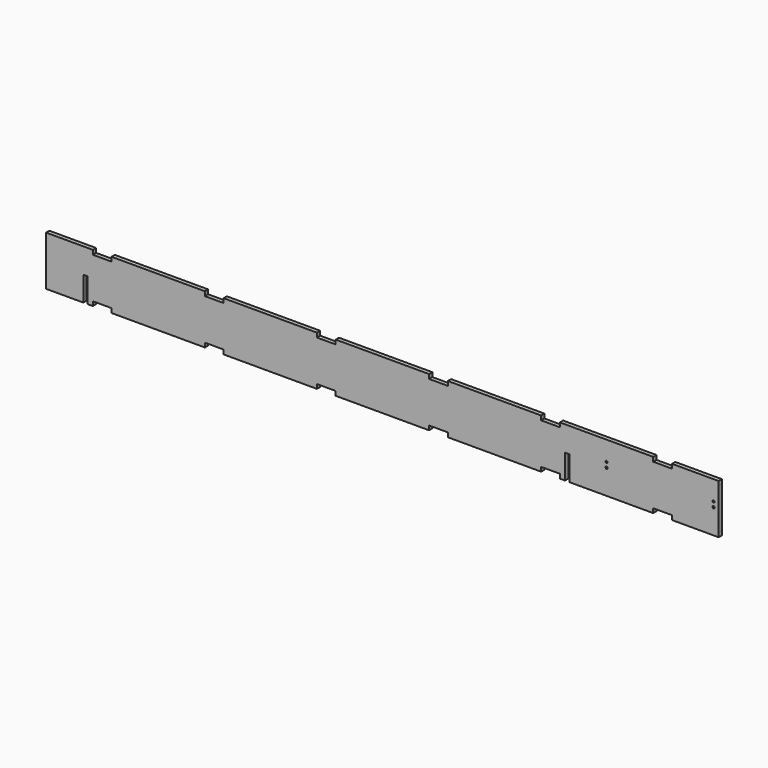
from build123d import *

# Parameters (mm, degrees)
F0_W     = 834.740075
F0_H     = 50.8
F1_DEPTH = 5.08
F3_W     = 57.9247
F3_H     = 5.334
F3_W_2   = 115.8494
F4_DEPTH = 5.08
F5_W     = 5.334
F5_H     = 30.48
F6_DEPTH = 25.4
F7_R     = 1.27
F8_DEPTH = 5.081


with BuildPart() as f1:
    # F0 (on Front) → F1 (new body)
    with BuildSketch(Plane.XZ):
        with Locations((417.370037, 25.4)):
            Rectangle(F0_W, F0_H)
    extrude(amount=F1_DEPTH)

    # F3 (on face) → F4 (join)
    with BuildSketch(Plane.XZ.offset(5.08)):
        with Locations((28.96235, 53.467)):
            Rectangle(F3_W, F3_H)
        with Locations((139.123346, 53.467)):
            Rectangle(F3_W_2, F3_H)
        with Locations((28.96235, -2.667)):
            Rectangle(F3_W, F3_H)
        with Locations((139.123346, -2.667)):
            Rectangle(F3_W_2, F3_H)
        with Locations((278.246692, 53.467)):
            Rectangle(F3_W_2, F3_H)
        with Locations((278.246692, -2.667)):
            Rectangle(F3_W_2, F3_H)
        with Locations((417.370038, 53.467)):
            Rectangle(F3_W_2, F3_H)
        with Locations((417.370038, -2.667)):
            Rectangle(F3_W_2, F3_H)
        with Locations((556.493384, 53.467)):
            Rectangle(F3_W_2, F3_H)
        with Locations((556.493384, -2.667)):
            Rectangle(F3_W_2, F3_H)
        with Locations((695.61673, 53.467)):
            Rectangle(F3_W_2, F3_H)
        with Locations((695.61673, -2.667)):
            Rectangle(F3_W_2, F3_H)
        with Locations((805.777725, 53.467)):
            Rectangle(F3_W, F3_H)
        with Locations((805.777725, -2.667)):
            Rectangle(F3_W, F3_H)
    extrude(amount=-F4_DEPTH)

    # F5 (on face) → F6 (cut)
    with BuildSketch(Plane(origin=(0, 0, 0), x_dir=(-1, 0, 0), z_dir=(0, 1, 0))):
        with Locations((-646.70903, 9.906)):
            Rectangle(F5_W, F5_H)
        with Locations((-48.9077, 9.906)):
            Rectangle(F5_W, F5_H)
    extrude(amount=-F6_DEPTH, mode=Mode.SUBTRACT)

    # F7 (on face) → F8 (cut, through all)
    with BuildSketch(Plane(origin=(0, 0, 0), x_dir=(-1, 0, 0), z_dir=(0, 1, 0))):
        with Locations((-695.61673, 25.4)):
            Circle(F7_R)
        with Locations((-695.61673, 31.75)):
            Circle(F7_R)
        with Locations((-828.390075, 31.75)):
            Circle(F7_R)
        with Locations((-828.390075, 25.4)):
            Circle(F7_R)
    extrude(amount=-F8_DEPTH, mode=Mode.SUBTRACT)


solid = f1.part
